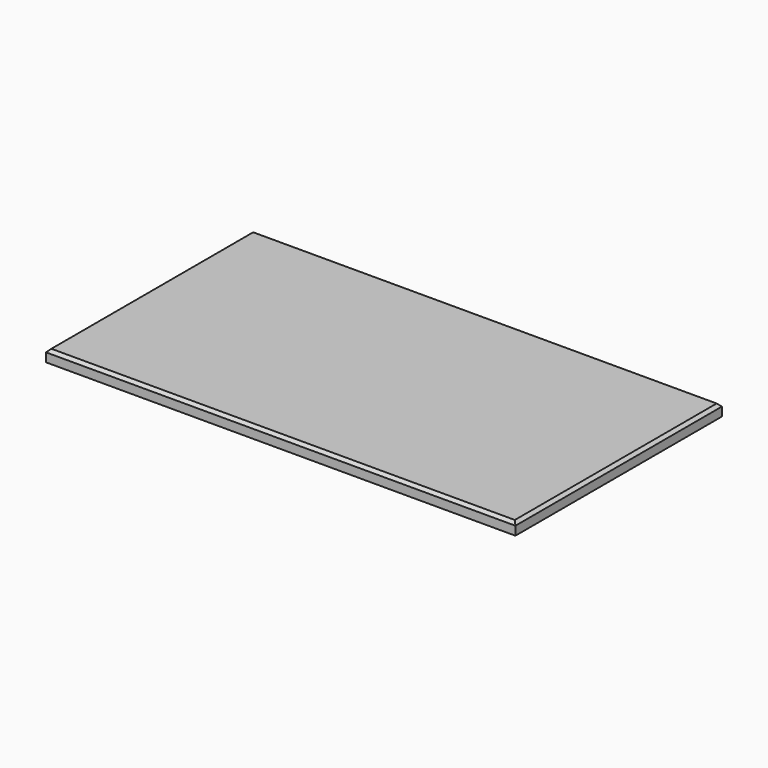
from build123d import *

# Parameters (mm, degrees)
F0_W     = 1016
F0_H     = 558.8
F1_DEPTH = 25.4
F2_DEPTH = 25.4
F3_SIZE  = 6.35


with BuildPart() as f1:
    # F0 (on Top) → F1 (new body)
    with BuildSketch(Plane.XY):
        with Locations((508, 279.4)):
            Rectangle(F0_W, F0_H)
    extrude(amount=F1_DEPTH)

    # F0 (on Top) → F2 (join)
    with BuildSketch(Plane.XY):
        with Locations((508, 279.4)):
            Rectangle(F0_W, F0_H)
    extrude(amount=F2_DEPTH)

    # F3
    f3_edges = [f1.edges().sort_by_distance(p)[0] for p in [
        (0, 279.4, 25.4),
        (508, 0, 25.4),
        (1016, 279.4, 25.4),
        (508, 558.8, 25.4),
    ]]
    chamfer(f3_edges, length=F3_SIZE)


solid = f1.part
